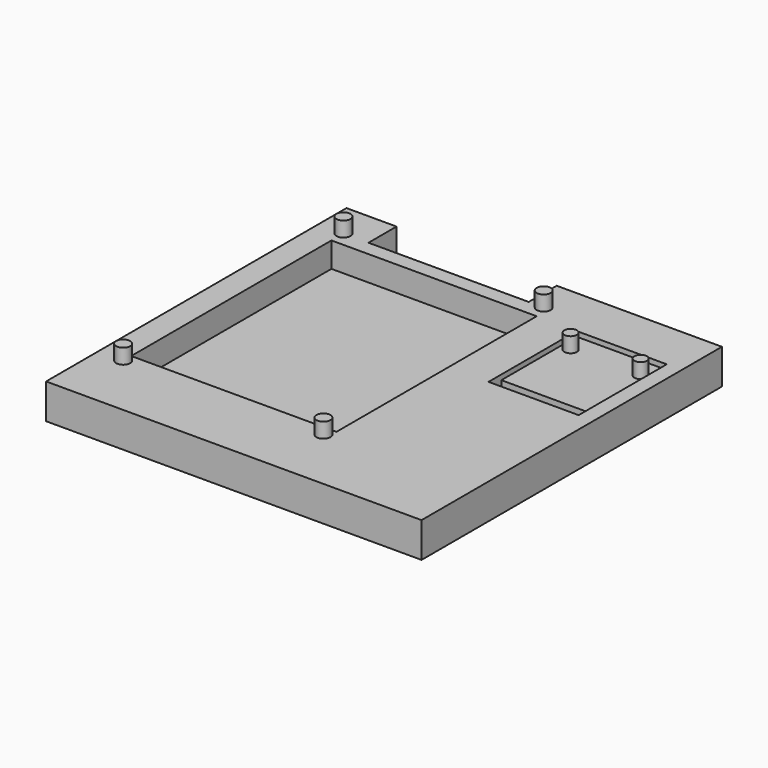
from build123d import *

# Parameters (mm, degrees)
SKETCH_W        = 75
SKETCH_H        = 75
PAD_DEPTH       = 7
SKETCH001_R     = 1.4
PAD001_DEPTH    = 3
SKETCH002_W     = 41
SKETCH002_H     = 50
POCKET_DEPTH    = 5
SKETCH003_W     = 18
SKETCH003_H     = 22
POCKET001_DEPTH = 1
SKETCH004_W     = 18
SKETCH004_H     = 3.2
POCKET002_DEPTH = 6.001
SKETCH005_R     = 1.25
PAD002_DEPTH    = 3
SKETCH006_W     = 32
SKETCH006_H     = 10
POCKET003_DEPTH = 7.001


with BuildPart() as part:
    # Sketch → Pad (new body)
    with BuildSketch(Plane.XY):
        with Locations((37.5, 37.5)):
            Rectangle(SKETCH_W, SKETCH_H)
    extrude(amount=PAD_DEPTH)

    # Sketch001 (on Face6 of Pad) → Pad001 (join)
    with BuildSketch(Plane.XY.offset(7)):
        with Locations((5, 68)):
            Circle(SKETCH001_R)
        with Locations((45, 68)):
            Circle(SKETCH001_R)
        with Locations((5, 13)):
            Circle(SKETCH001_R)
        with Locations((45, 13)):
            Circle(SKETCH001_R)
    extrude(amount=PAD001_DEPTH)

    # Sketch002 (on Face5 of Pad001) → Pocket (cut)
    with BuildSketch(Plane.XY.offset(7)):
        with Locations((25.5, 40)):
            Rectangle(SKETCH002_W, SKETCH002_H)
    extrude(amount=-POCKET_DEPTH, mode=Mode.SUBTRACT)

    # Sketch003 (on Face5 of Pocket) → Pocket001 (cut)
    with BuildSketch(Plane.XY.offset(7)):
        with Locations((62.979134, 54)):
            Rectangle(SKETCH003_W, SKETCH003_H)
    extrude(amount=-POCKET001_DEPTH, mode=Mode.SUBTRACT)

    # Sketch004 (on Face23 of Pocket001) → Pocket002 (cut, through all)
    with BuildSketch(Plane.XY.offset(6)):
        with Locations((62.979134, 44.6)):
            Rectangle(SKETCH004_W, SKETCH004_H)
    extrude(amount=-POCKET002_DEPTH, mode=Mode.SUBTRACT)

    # Sketch005 (on Face23 of Pocket002) → Pad002 (join)
    with BuildSketch(Plane.XY.offset(6)):
        with Locations((55.979134, 61)):
            Circle(SKETCH005_R)
        with Locations((69.979134, 61)):
            Circle(SKETCH005_R)
    extrude(amount=PAD002_DEPTH)

    # Sketch006 (on Face5 of Pad002) → Pocket003 (cut, through all)
    with BuildSketch(Plane.XY.offset(7)):
        with Locations((26, 73)):
            Rectangle(SKETCH006_W, SKETCH006_H)
    extrude(amount=-POCKET003_DEPTH, mode=Mode.SUBTRACT)


solid = part.part
